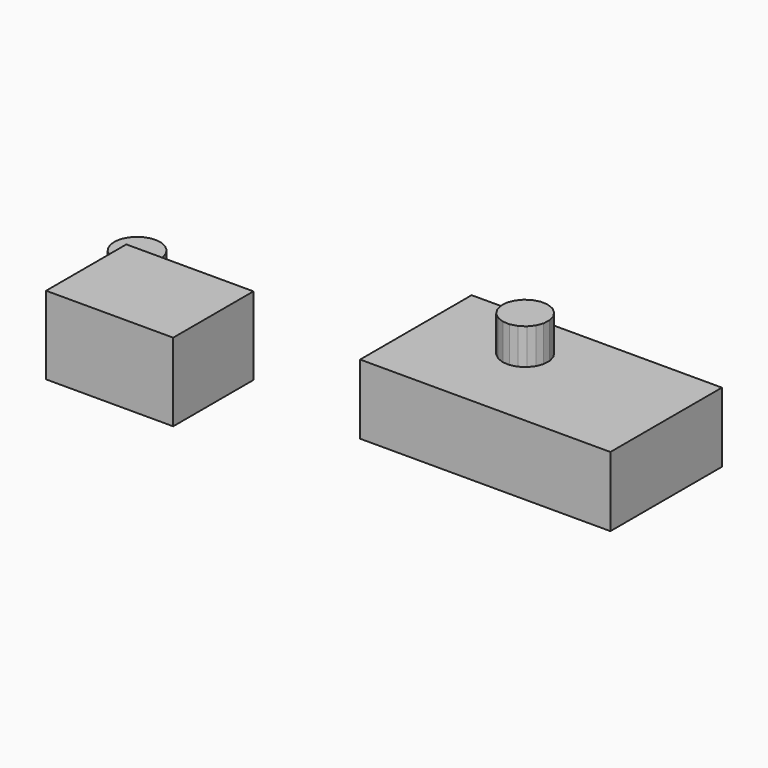
from build123d import *

# Parameters (mm, degrees)
F0_W     = 65.757632
F0_H     = 51.907856
F1_DEPTH = 40.386
F3_DEPTH = 25.4
F5_DEPTH = 54.61
F6_W     = 129.483937
F6_H     = 72.125848
F7_DEPTH = 36.068


with BuildPart() as f1:
    # F0 (on Top) → F1 (new body)
    with BuildSketch(Plane.XY):
        with Locations((-112.398729, 25.953928)):
            Rectangle(F0_W, F0_H)
    extrude(amount=F1_DEPTH)


with BuildPart() as f3:
    # F2 (on Top) → F3 (new body)
    with BuildSketch(Plane.XY):
        Polygon((-148.775396, 63.976901), (-146.713111, 66.302566), (-145.323023, 69.082744), (-144.699865, 72.127971), (-144.886103, 75.23072), (-145.869045, 78.179543), (-147.581706, 80.773483), (-149.907371, 82.835768), (-152.687549, 84.225856), (-155.732776, 84.849014), (-158.835525, 84.662776), (-161.784348, 83.679834), (-164.378289, 81.967173), (-166.440573, 79.641508), (-167.830661, 76.86133), (-168.453819, 73.816103), (-168.267582, 70.713354), (-167.284639, 67.764531), (-165.571978, 65.17059), (-163.246313, 63.108306), (-160.466135, 61.718218), (-157.420908, 61.09506), (-154.318159, 61.281297), (-151.369336, 62.26424), align=None)
    extrude(amount=F3_DEPTH)


with BuildPart() as f5:
    # F4 (on Top) → F5 (new body)
    with BuildSketch(Plane.XY):
        Polygon((42.964521, 75.64168), (45.271141, 78.493935), (46.583472, 81.919375), (46.773054, 85.582694), (45.821329, 89.125302), (43.821458, 92.200423), (40.969204, 94.507043), (37.543764, 95.819375), (33.880444, 96.008956), (30.337836, 95.057231), (27.262715, 93.057361), (24.956095, 90.205106), (23.643764, 86.779666), (23.454182, 83.116347), (24.405907, 79.573739), (26.405777, 76.498618), (29.258032, 74.191998), (32.683472, 72.879667), (36.346791, 72.690085), (39.889399, 73.64181), align=None)
    extrude(amount=F5_DEPTH)

    # F6 (on Top) → F7 (join)
    with BuildSketch(Plane.XY):
        with Locations((50.95999, 74.777985)):
            Rectangle(F6_W, F6_H)
    extrude(amount=F7_DEPTH)


solid = Compound([f1.part, f3.part, f5.part])
